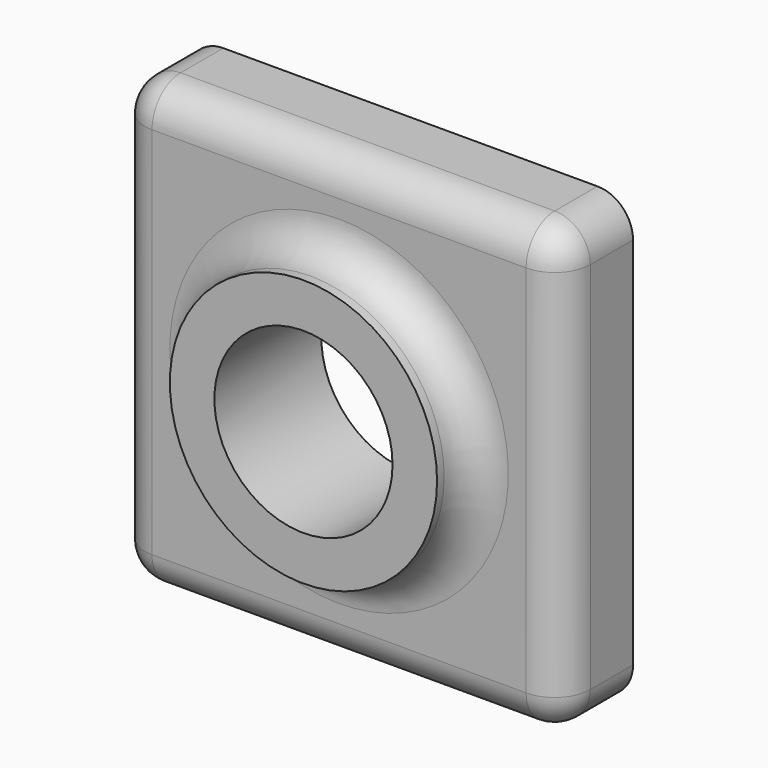
from build123d import *

# Parameters (mm, degrees)
F1_DEPTH = 12.7
F2_R     = 19.05
F2_R_2   = 12.7
F3_DEPTH = 19.05
F4_R     = 5.08


with BuildPart() as f1:
    # F0 (on Front) → F1 (new body)
    with BuildSketch(Plane.XZ):
        with BuildLine():
            Line((0, 31.75), (0, 19.05))
            ThreePointArc((0, 19.05), (13.4703841816, 13.4703841816), (19.05, 0))
            ThreePointArc((19.05, 0), (-7.2901193866, -17.5999050943), (-13.4703841816, 13.4703841816))
            Line((-13.4703841816, 13.4703841816), (-31.75, 31.75))
            Line((-31.75, 31.75), (-31.75, -31.75))
            Line((-31.75, -31.75), (31.75, -31.75))
            Line((31.75, -31.75), (31.75, 31.75))
            Line((31.75, 31.75), (0, 31.75))
        make_face()
        with BuildLine():
            ThreePointArc((-13.4703841816, 13.4703841816), (-7.2901193866, 17.5999050943), (0, 19.05))
            Line((0, 19.05), (0, 31.75))
            Line((0, 31.75), (-31.75, 31.75))
            Line((-31.75, 31.75), (-13.4703841816, 13.4703841816))
        make_face()
    extrude(amount=F1_DEPTH)

    # F2 (on Front) → F3 (join)
    with BuildSketch(Plane.XZ):
        Circle(F2_R)
        Circle(F2_R_2, mode=Mode.SUBTRACT)
    extrude(amount=F3_DEPTH)

    # F4
    f4_edges = [f1.edges().sort_by_distance(p)[0] for p in [
        (-19.05, -12.7, 0),
        (0, -12.7, 31.75),
        (-31.75, -12.7, 0),
        (0, -12.7, -31.75),
        (31.75, -12.7, 0),
        (31.75, -6.35, 31.75),
        (-31.75, -6.35, 31.75),
        (-31.75, -6.35, -31.75),
        (31.75, -6.35, -31.75),
    ]]
    fillet(f4_edges, radius=F4_R)


solid = f1.part
